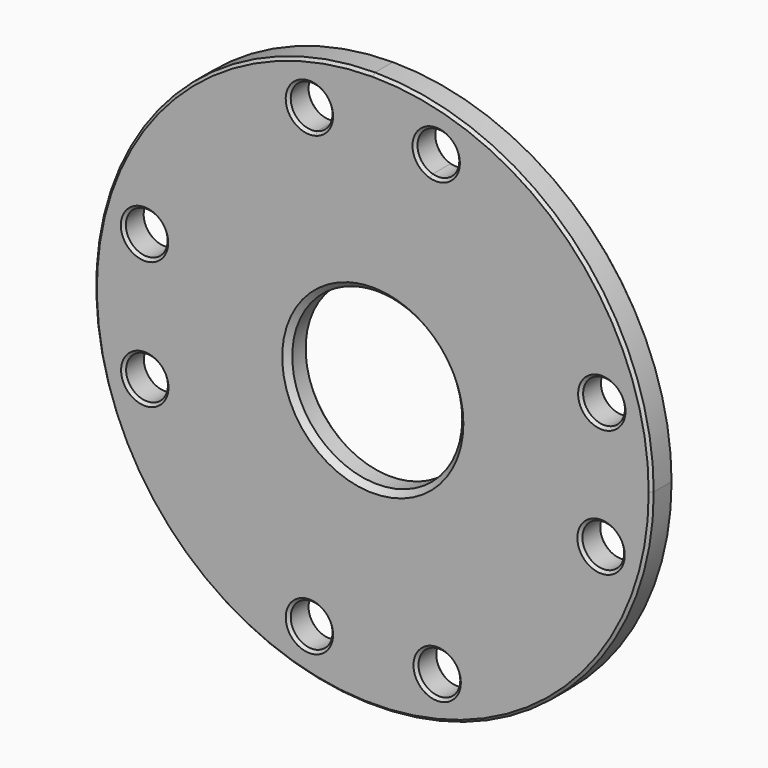
from build123d import *

# Parameters (mm, degrees)
F0_R     = 7.5
F1_DEPTH = 10
F2_SIZE2 = 1
F2_SIZE  = 1
F3_SIZE2 = 1
F3_SIZE  = 1
F4_SIZE2 = 2
F4_SIZE  = 2
F5_SIZE2 = 2
F5_SIZE  = 2
F6_SIZE2 = 1
F6_SIZE  = 1
F7_SIZE2 = 1
F7_SIZE  = 1


with BuildPart() as f1:
    # F0 (on Front) → F1 (new body)
    with BuildSketch(Plane.XZ):
        with BuildLine():
            ThreePointArc((0, 100), (-70.710678, -70.710678), (100, 0))
            ThreePointArc((100, 0), (70.710678, 70.710678), (0, 100))
        make_face()
        with Locations((-22.743852, -81.900654)):
            Circle(F0_R, mode=Mode.SUBTRACT)
        with Locations((-81.811651, -23.00498)):
            Circle(F0_R, mode=Mode.SUBTRACT)
        with Locations((23.093983, -82.072779)):
            Circle(F0_R, mode=Mode.SUBTRACT)
        with Locations((81.900654, -22.743852)):
            Circle(F0_R, mode=Mode.SUBTRACT)
        with Locations((-81.900654, 22.743852)):
            Circle(F0_R, mode=Mode.SUBTRACT)
        with BuildLine():
            ThreePointArc((-15.243852, 81.900654), (-16.773045, 77.361992), (-20.737042, 74.674126))
            ThreePointArc((-20.737042, 74.674126), (-28.714659, 86.439317), (-15.243852, 81.900654))
        make_face(mode=Mode.SUBTRACT)
        with BuildLine():
            ThreePointArc((-8.161029, 29.387882), (-4.118228, 30.220692), (0, 30.5))
            ThreePointArc((0, 30.5), (4.118228, 30.220692), (8.161029, 29.387882))
            ThreePointArc((8.161029, 29.387882), (24.281283, 18.457229), (30.5, 0))
            ThreePointArc((30.5, 0), (-18.457229, -24.281283), (-8.161029, 29.387882))
        make_face(mode=Mode.SUBTRACT)
        with Locations((82.161782, 22.832855)):
            Circle(F0_R, mode=Mode.SUBTRACT)
        with BuildLine():
            ThreePointArc((30.243852, 81.900654), (27.282515, 75.929847), (20.737042, 74.674126))
            ThreePointArc((20.737042, 74.674126), (18.205189, 87.871462), (30.243852, 81.900654))
        make_face(mode=Mode.SUBTRACT)
    extrude(amount=F1_DEPTH)

    # F2
    f2_edges = [f1.edges().sort_by_distance(p)[0] for p in [
        (-100, 0, 0),
    ]]
    chamfer(f2_edges, length=F2_SIZE, length2=F2_SIZE2)

    # F3
    f3_edges = [f1.edges().sort_by_distance(p)[0] for p in [
        (-100, -10, 0),
    ]]
    chamfer(f3_edges, length=F3_SIZE, length2=F3_SIZE2)

    # F4
    f4_edges = [f1.edges().sort_by_distance(p)[0] for p in [
        (8.161029, 0, -29.387882),
    ]]
    chamfer(f4_edges, length=F4_SIZE, length2=F4_SIZE2)

    # F5
    f5_edges = [f1.edges().sort_by_distance(p)[0] for p in [
        (8.161029, -10, -29.387882),
    ]]
    chamfer(f5_edges, length=F5_SIZE, length2=F5_SIZE2)

    # F6
    f6_edges = [f1.edges().sort_by_distance(p)[0] for p in [
        (15.243852, 0, 81.900654),
        (-30.243852, 0, 81.900654),
        (-89.400654, 0, 22.743852),
        (-89.311651, 0, -23.00498),
        (-30.243852, 0, -81.900654),
        (15.593983, 0, -82.072779),
        (74.400654, 0, -22.743852),
        (74.661782, 0, 22.832855),
    ]]
    chamfer(f6_edges, length=F6_SIZE, length2=F6_SIZE2)

    # F7
    f7_edges = [f1.edges().sort_by_distance(p)[0] for p in [
        (-30.243852, -10, 81.900654),
        (15.243852, -10, 81.900654),
        (74.661782, -10, 22.832855),
        (74.400654, -10, -22.743852),
        (15.593983, -10, -82.072779),
        (-30.243852, -10, -81.900654),
        (-89.400654, -10, 22.743852),
        (-89.311651, -10, -23.00498),
    ]]
    chamfer(f7_edges, length=F7_SIZE, length2=F7_SIZE2)


solid = f1.part
